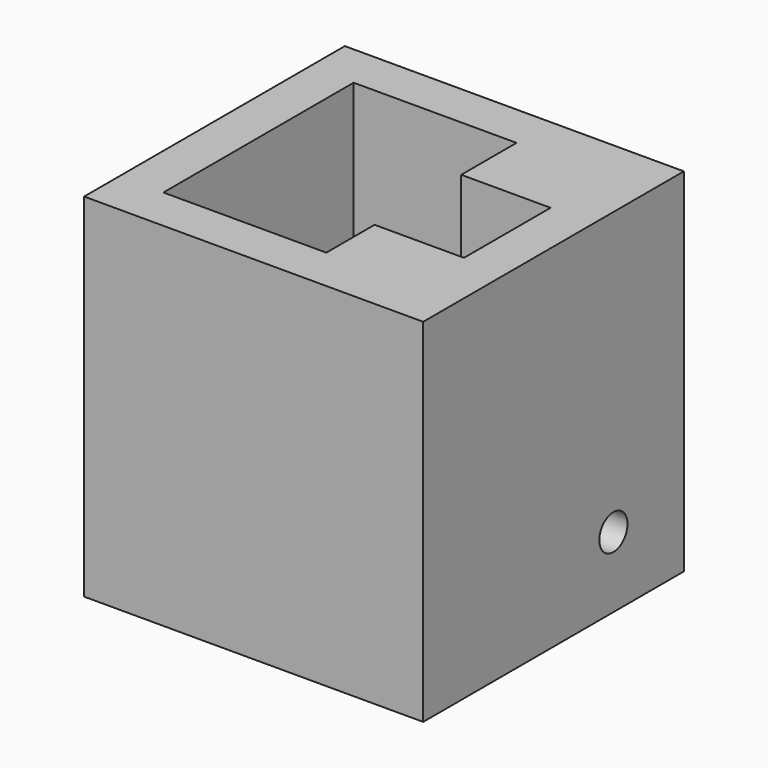
from build123d import *

# Parameters (mm, degrees)
SKETCH_W        = 38.5
SKETCH_H        = 37
PAD_DEPTH       = 40
SKETCH001_R     = 2
POCKET_DEPTH    = 15
SKETCH002_W     = 10.15
SKETCH002_H     = 12.3
POCKET001_DEPTH = 40.001


with BuildPart() as part:
    # Sketch → Pad (new body)
    with BuildSketch(Plane.XY):
        with Locations((-4.316334, 6.5)):
            Rectangle(SKETCH_W, SKETCH_H)
        Polygon((9.933666, 0), (9.933666, 12), (-0.066334, 12), (-0.066334, 20), (-18.566334, 20), (-18.566334, -7), (-0.066334, -7), (-0.066334, 0), align=None, mode=Mode.SUBTRACT)
    extrude(amount=PAD_DEPTH)

    # Sketch001 (on Face2 of Pad) → Pocket (cut)
    with BuildSketch(Plane.YZ.offset(14.933666)):
        with Locations((15, 8)):
            Circle(SKETCH001_R)
    extrude(amount=-POCKET_DEPTH, mode=Mode.SUBTRACT)

    # Sketch002 (on Face5 of Pocket) → Pocket001 (cut, through all)
    with BuildSketch(Plane.XY.offset(40)):
        with Locations((5.008666, 6)):
            Rectangle(SKETCH002_W, SKETCH002_H)
    extrude(amount=-POCKET001_DEPTH, mode=Mode.SUBTRACT)


solid = part.part
